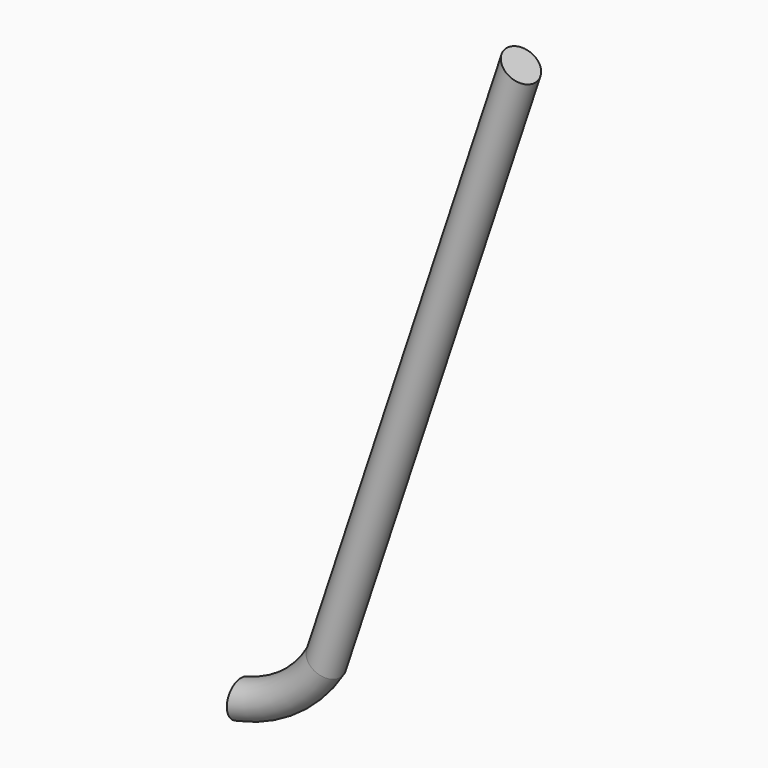
from build123d import *

# Parameters (mm, degrees)
F1_R     = 20
F4_W     = 492.1490550041
F4_H     = 903.9503931999
F5_DEPTH = 285


with BuildPart() as f2:
    # F2: sweep along a path in F0
    with BuildLine(Plane.XZ) as f2_path:
        Line((-66.0728167501, 300.1200573085), (152.5581282915, -358.4536903766))
        ThreePointArc((152.5581282915, -358.4536903766), (170.7512882752, -383.244508423), (200.0115750742, -392.700265719))
        Line((200.0115750742, -392.700265719), (207.8427914255, -392.700265719))
        ThreePointArc((207.8427914255, -392.700265719), (237.1030782246, -383.244508423), (255.2962382083, -358.4536903766))
        Line((255.2962382083, -358.4536903766), (473.9271832499, 300.1200573085))
    # F1 (on Top) → F2 (sweep)
    with BuildSketch(Plane.XY):
        with Locations((-66.0791993141, 0)):
            Circle(F1_R)
    sweep(path=f2_path.line)

    # F4 (on offset) → F5 (cut)
    with BuildSketch(Plane.XZ.offset(31)):
        with Locations((-6.3440799713, -128.8389265537)):
            Rectangle(F4_W, F4_H)
    extrude(amount=-F5_DEPTH, mode=Mode.SUBTRACT)


solid = f2.part
